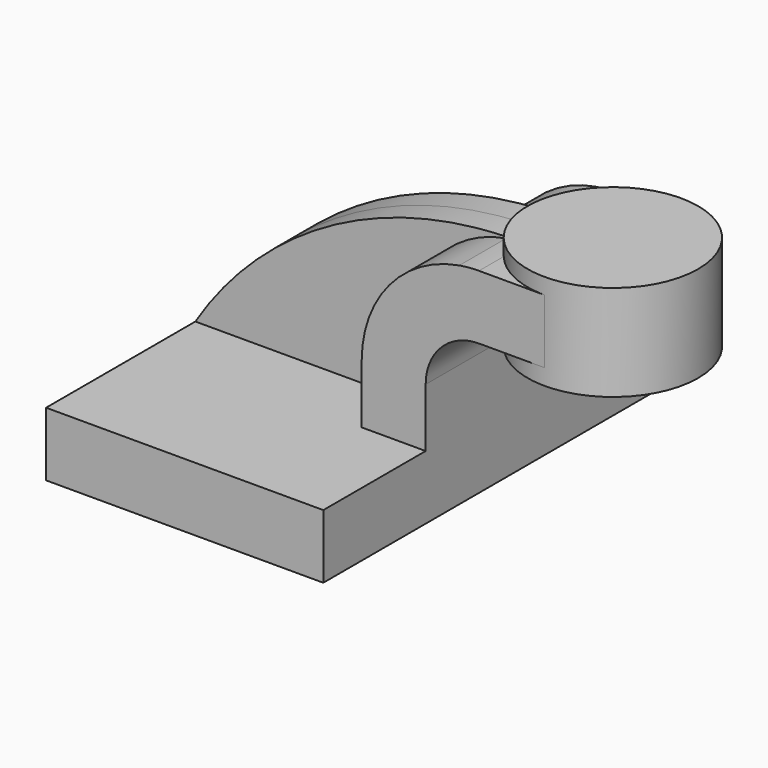
from build123d import *

# Parameters (mm, degrees)
F1_DEPTH = 63.5
F2_DEPTH = 25.4
F3_DEPTH = 25.4
F4_DEPTH = 7.9375


with BuildPart() as f1:
    # F0 (on Front) → F1 (new body, symmetric)
    with BuildSketch(Plane.XZ):
        Polygon((22.225, 9.525), (-41.275, 9.525), (-41.275, -9.525), (41.275, -9.525), (41.275, 9.525), align=None)
    extrude(amount=F1_DEPTH, both=True)

    # F0 (on Front) → F2 (join, symmetric)
    with BuildSketch(Plane.XZ):
        with BuildLine():
            Line((22.225, 27.0002), (22.225, 9.525))
            Line((22.225, 9.525), (41.275, 9.525))
            Line((41.275, 9.525), (41.275, 27.0002))
            ThreePointArc((41.275, 27.0002), (44.017559, 35.919539), (51.297629, 41.757076))
            Line((51.297629, 41.757076), (51.297629, 61.431369))
            ThreePointArc((51.297629, 61.431369), (30.465269, 49.531973), (22.225, 27.0002))
        make_face()
    extrude(amount=F2_DEPTH, both=True)

    # F0 (on Front) → F3 (join, symmetric)
    with BuildSketch(Plane.XZ):
        with BuildLine():
            ThreePointArc((57.15, 61.9252), (54.213415, 61.801523), (51.297629, 61.431369))
            Line((51.297629, 61.431369), (51.297629, 41.757076))
            ThreePointArc((51.297629, 41.757076), (54.170887, 42.593164), (57.15, 42.8752))
            Line((57.15, 42.8752), (76.697629, 42.8752))
            Line((76.697629, 42.8752), (76.697629, 61.9252))
            Line((76.697629, 61.9252), (57.15, 61.9252))
        make_face()
    extrude(amount=F3_DEPTH, both=True)

    # F0 (on Front) → F4 (join, symmetric)
    with BuildSketch(Plane.XZ):
        with BuildLine():
            add(Edge.make_bspline(
                [(-41.275, 9.525), (-23.414847, 38.170467), (9.099145, 60.576714), (51.297629, 61.880228)],
                knots=[0, 0, 0, 0, 106.626147, 106.626147, 106.626147, 106.626147], degree=3))
            Line((-41.275, 9.525), (22.225, 9.525))
            Line((22.225, 9.525), (22.225, 27.0002))
            ThreePointArc((22.225, 27.0002), (30.465269, 49.531973), (51.297629, 61.431369))
            Line((51.297629, 61.431369), (51.297629, 61.880228))
        make_face()
    extrude(amount=F4_DEPTH, both=True)


with BuildPart() as f5:
    # F0 (on Front) → F5 (revolve)
    with BuildSketch(Plane.XZ):
        Polygon((102.097629, 66.675), (76.697629, 66.675), (76.697629, 61.9252), (76.697629, 42.8752), (76.697629, 38.1), (102.097629, 38.1), align=None)
    revolve(axis=Axis((76.697629, 0, 52.3875), (0, 0, 1)))


solid = Compound([f1.part, f5.part])
